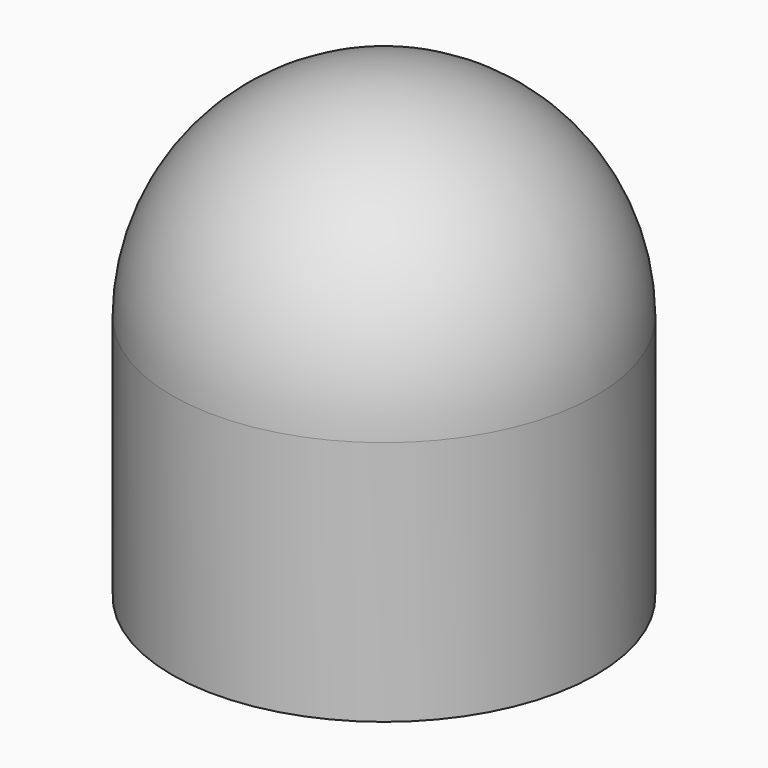
from build123d import *

# Parameters (mm, degrees)
F0_R     = 5
F1_DEPTH = 10.8
F2_R     = 5
F3_R     = 2.65
F4_DEPTH = 9


with BuildPart() as f1:
    # F0 (on Top) → F1 (new body)
    with BuildSketch(Plane.XY):
        Circle(F0_R)
    extrude(amount=F1_DEPTH)

    # F2
    f2_edges = [f1.edges().sort_by_distance(p)[0] for p in [
        (-5, 0, 10.8),
    ]]
    fillet(f2_edges, radius=F2_R)

    # F3 (on face) → F4 (cut)
    with BuildSketch(Plane(origin=(0, 0, 0), x_dir=(1, 0, 0), z_dir=(0, 0, -1))):
        Circle(F3_R)
    extrude(amount=-F4_DEPTH, mode=Mode.SUBTRACT)


solid = f1.part
